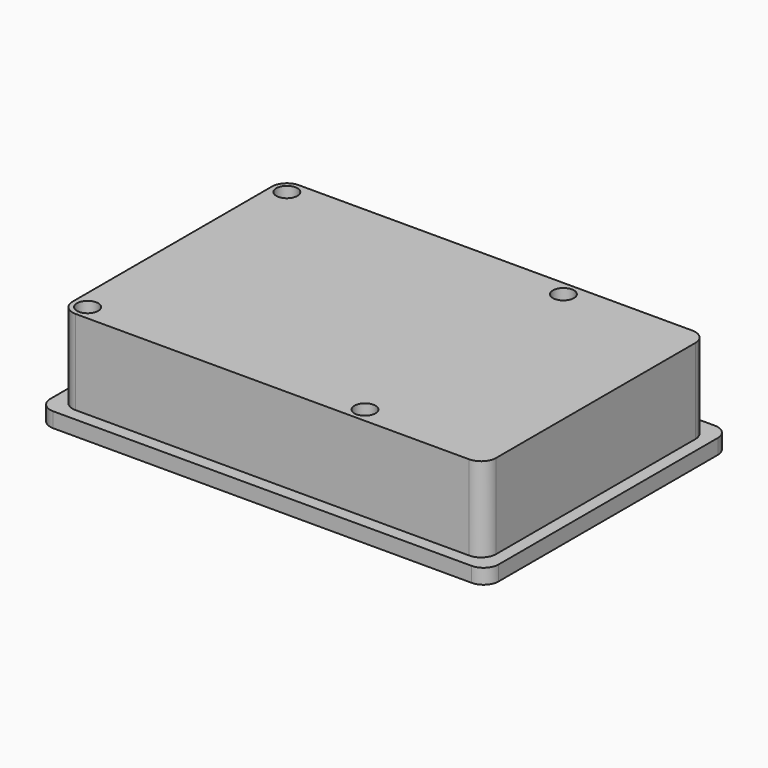
from build123d import *

# Parameters (mm, degrees)
F0_R     = 2.113509
F1_DEPTH = 20
F2_R     = 2.113509
F3_DEPTH = 5
F4_DEPTH = 3


with BuildPart() as f1:
    # F0 (on Top) → F1 (new body)
    with BuildSketch(Plane.XY):
        with BuildLine():
            ThreePointArc((-42.5, -25), (-41.62132, -27.12132), (-39.5, -28))
            Line((-39.5, -28), (39.5, -28))
            ThreePointArc((39.5, -28), (41.62132, -27.12132), (42.5, -25))
            Line((42.5, -25), (42.5, 25))
            ThreePointArc((42.5, 25), (41.62132, 27.12132), (39.5, 28))
            Line((39.5, 28), (-39.5, 28))
            ThreePointArc((-39.5, 28), (-41.62132, 27.12132), (-42.5, 25))
            Line((-42.5, 25), (-42.5, -25))
        make_face()
        with Locations((-39.5, -25)):
            Circle(F0_R, mode=Mode.SUBTRACT)
        with Locations((16.180091, -25)):
            Circle(F0_R, mode=Mode.SUBTRACT)
        with Locations((-39.5, 25)):
            Circle(F0_R, mode=Mode.SUBTRACT)
        with Locations((16.022362, 25)):
            Circle(F0_R, mode=Mode.SUBTRACT)
    extrude(amount=F1_DEPTH)


with BuildPart() as f3:
    # F2 (on Top) → F3 (new body)
    with BuildSketch(Plane.XY):
        with Locations((-39.399996, -24.823522)):
            Circle(F2_R)
        with Locations((16.030002, 25.057763)):
            Circle(F2_R)
        with Locations((16.192948, -25.023146)):
            Circle(F2_R)
        with Locations((-39.4, 24.999997)):
            Circle(F2_R)
    extrude(amount=F3_DEPTH)


with BuildPart() as f4:
    # F2 (on Top) → F4 (new body)
    with BuildSketch(Plane.XY):
        with BuildLine():
            ThreePointArc((45, 27.5), (44.12132, 29.62132), (42, 30.5))
            Line((42, 30.5), (-42, 30.5))
            ThreePointArc((-42, 30.5), (-44.12132, 29.62132), (-45, 27.5))
            Line((-45, 27.5), (-45, -27.5))
            ThreePointArc((-45, -27.5), (-44.12132, -29.62132), (-42, -30.5))
            Line((-42, -30.5), (42, -30.5))
            ThreePointArc((42, -30.5), (44.12132, -29.62132), (45, -27.5))
            Line((45, -27.5), (45, 27.5))
        make_face()
        with Locations((-39.399996, -24.823522)):
            Circle(F2_R, mode=Mode.SUBTRACT)
        with Locations((16.192948, -25.023146)):
            Circle(F2_R, mode=Mode.SUBTRACT)
        with Locations((-39.4, 24.999997)):
            Circle(F2_R, mode=Mode.SUBTRACT)
        with Locations((16.030002, 25.057763)):
            Circle(F2_R, mode=Mode.SUBTRACT)
    extrude(amount=F4_DEPTH)


solid = Compound([f1.part, f3.part, f4.part])
